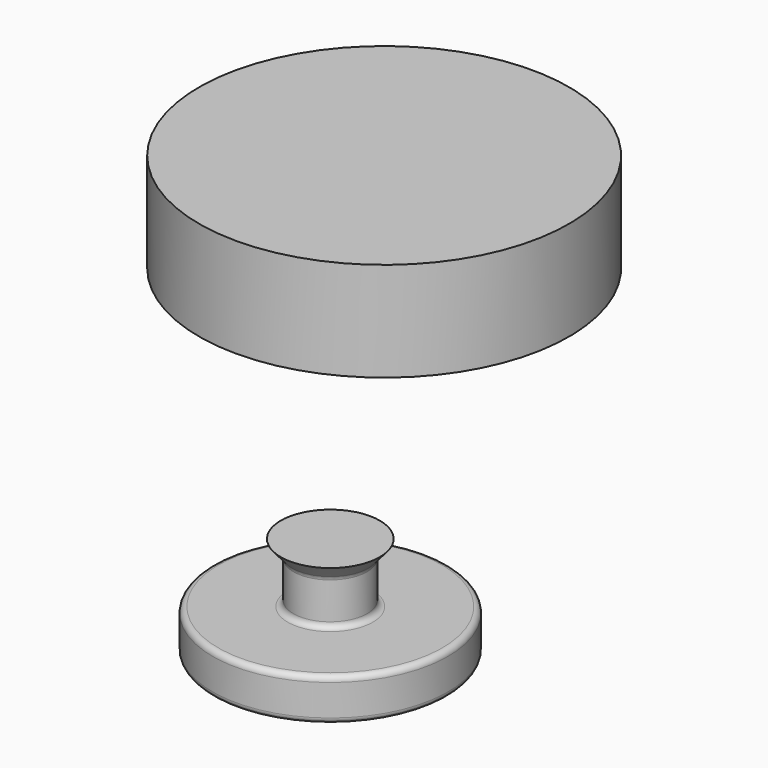
from build123d import *

# Parameters (mm, degrees)
F2_R = 2


with BuildPart() as f1:
    # F0 (on Right) → F1 (revolve)
    with BuildSketch(Plane.YZ):
        Polygon((0, 21), (0, 0), (0, -15), (41.5, -15), (41.5, 0), (13, 0), (13, 15.705347), (17.442741, 21), align=None)
    revolve(axis=Axis((0, 0, -22.632297), (0, 0, -1)))

    # F2
    f2_edges = [f1.edges().sort_by_distance(p)[0] for p in [
        (0, -41.5, 0),
        (0, -13, 15.705347),
        (0, -13, 0),
        (0, -41.5, -15),
    ]]
    fillet(f2_edges, radius=F2_R)


with BuildPart() as f4:
    # F3 (on Right) → F4 (revolve)
    with BuildSketch(Plane.YZ):
        with BuildLine():
            Line((23.731066, 119.715914), (23.731066, 130.321972))
            Line((23.731066, 130.321972), (-41.496214, 130.321972))
            Line((-41.496214, 130.321972), (-41.496214, 95.321976))
            Line((-41.496214, 95.321976), (-33.276513, 95.321976))
            ThreePointArc((-33.276513, 95.321976), (-30.359849, 98.23864), (-33.276513, 101.155303))
            Line((-33.276513, 101.155303), (-33.276513, 119.715914))
            Line((-33.276513, 119.715914), (23.731066, 119.715914))
        make_face()
    revolve(axis=Axis((0, 23.731066, 125.018943), (0, 0, -1)))


solid = Compound([f1.part, f4.part])
